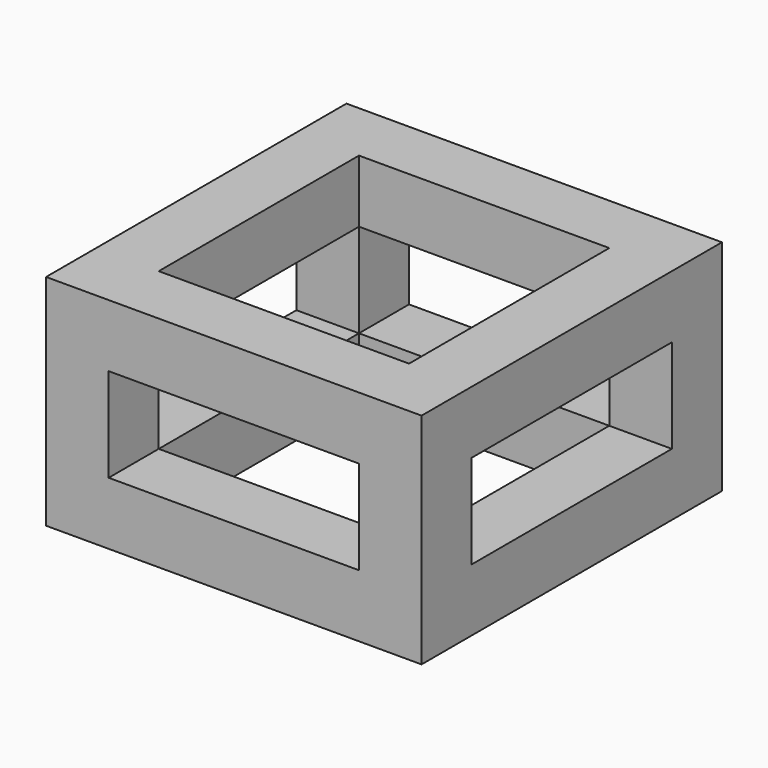
from build123d import *

# Parameters (mm, degrees)
F0_W     = 200
F0_H     = 200
F0_W_2   = 800
F0_H_2   = 800
F1_DEPTH = 200
F2_DEPTH = 300
F3_DEPTH = 200.001
F4_W     = 1200
F4_H     = 1200
F4_W_2   = 800
F4_H_2   = 800
F5_DEPTH = 200


with BuildPart() as f1:
    # F0 (on Top) → F1 (new body)
    with BuildSketch(Plane.XY):
        with Locations((-500, 500)):
            Rectangle(F0_W, F0_H)
        with Locations((0, 500)):
            Rectangle(F0_W_2, F0_H)
        with Locations((500, 500)):
            Rectangle(F0_W, F0_H)
        with Locations((500, 0)):
            Rectangle(F0_W, F0_H_2)
        Rectangle(F0_W_2, F0_H_2)
        with Locations((-500, 0)):
            Rectangle(F0_W, F0_H_2)
        with Locations((-500, -500)):
            Rectangle(F0_W, F0_H)
        with Locations((0, -500)):
            Rectangle(F0_W_2, F0_H)
        with Locations((500, -500)):
            Rectangle(F0_W, F0_H)
    extrude(amount=-F1_DEPTH)

    # F0 (on Top) → F2 (join)
    with BuildSketch(Plane.XY):
        with Locations((-500, -500)):
            Rectangle(F0_W, F0_H)
        with Locations((500, -500)):
            Rectangle(F0_W, F0_H)
        with Locations((500, 500)):
            Rectangle(F0_W, F0_H)
        with Locations((-500, 500)):
            Rectangle(F0_W, F0_H)
    extrude(amount=F2_DEPTH)

    # F0 (on Top) → F3 (cut, through all)
    with BuildSketch(Plane.XY):
        Rectangle(F0_W_2, F0_H_2)
    extrude(amount=-F3_DEPTH, mode=Mode.SUBTRACT)

    # F4 (on face) → F5 (join)
    with BuildSketch(Plane.XY.offset(300)):
        Rectangle(F4_W, F4_H)
        Rectangle(F4_W_2, F4_H_2, mode=Mode.SUBTRACT)
        Polygon((-600, -600), (600, -600), (600, -400), (600, 600), (-600, 600), align=None)
        Rectangle(F4_W_2, F4_H_2, mode=Mode.SUBTRACT)
    extrude(amount=F5_DEPTH)


solid = f1.part
